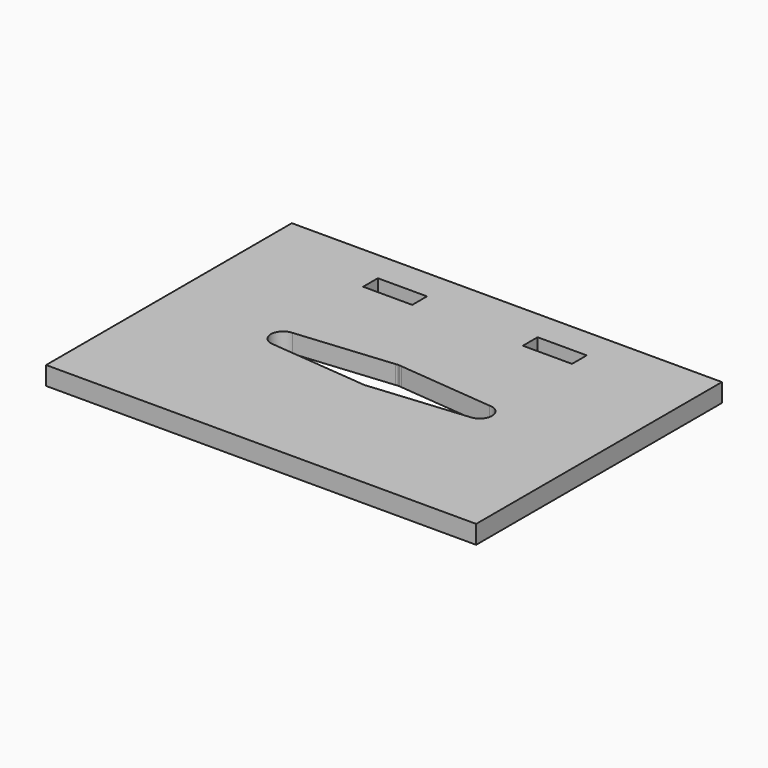
from build123d import *

# Parameters (mm, degrees)
F0_W     = 70
F0_H     = 50
F0_W_2   = 8
F0_H_2   = 3
F1_DEPTH = 3


with BuildPart() as f1:
    # F0 (on Top) → F1 (new body)
    with BuildSketch(Plane.XY):
        with Locations((0, 0.517644)):
            Rectangle(F0_W, F0_H)
        with BuildLine():
            ThreePointArc((0.646838, -3.439709), (0.324821, -3.484895), (0, -3.5))
            Line((0, -3.5), (-16.06788, -1.998848))
            ThreePointArc((-16.06788, -1.998848), (-17.999999, 0.001692), (-16.064498, 1.99896))
            Line((-16.064498, 1.99896), (-0.513446, 3.462134))
            ThreePointArc((-0.513446, 3.462134), (-0.327023, 3.484689), (-0.139659, 3.497213))
            Line((-0.139659, 3.497213), (0, 3.510319))
            Line((0, 3.510319), (0.137441, 3.4973))
            ThreePointArc((0.137441, 3.4973), (0.330045, 3.484404), (0.521645, 3.460908))
            Line((0.521645, 3.460908), (15.951255, 1.999406))
            ThreePointArc((15.951255, 1.999406), (17.99656, 0.117247), (16.185612, -1.991368))
            Line((16.185612, -1.991368), (0.646838, -3.439709))
        make_face(mode=Mode.SUBTRACT)
        with Locations((-13, 19.017644)):
            Rectangle(F0_W_2, F0_H_2, mode=Mode.SUBTRACT)
        with Locations((13, 19.017644)):
            Rectangle(F0_W_2, F0_H_2, mode=Mode.SUBTRACT)
    extrude(amount=F1_DEPTH)


solid = f1.part
